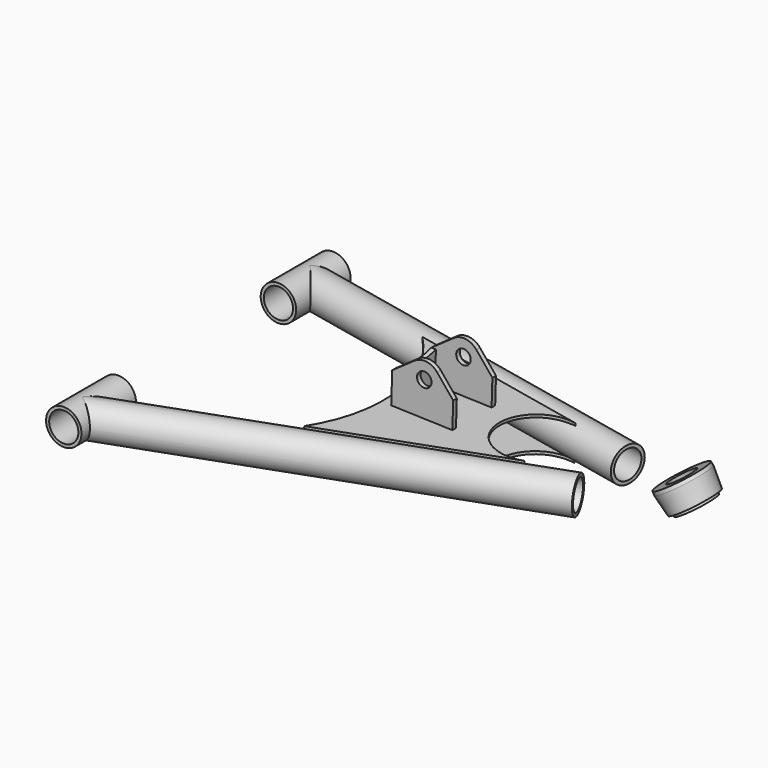
from build123d import *

# Parameters (mm, degrees)
F9_R           = 12.75
F9_R_2         = 10.5
F10_DEPTH      = 161
F10_DEPTH_BACK = 81
F11_W          = 233.1022918224
F11_H          = 144
F12_DEPTH      = 16.9874824964
F12_DEPTH_BACK = 16.3189353996
F14_R          = 12.75
F14_R_2        = 10.25
F15_DEPTH      = 270
F17_R          = 12.75
F17_R_2        = 10.25
F18_DEPTH      = 290
F19_R          = 12.75
F20_DEPTH      = 81.001
F20_DEPTH_BACK = 161.001
F23_DEPTH      = 2
F28_R          = 5.225
F29_DEPTH      = 3.25
F32_DEPTH      = 3.25


with BuildPart() as f8:
    # F7 (on face) → F8 (revolve)
    with BuildSketch(Plane(origin=(2.430759518, -27.7837084267, 0), x_dir=(-0.9961946981, -0.0871557427, 0), z_dir=(-0.0871557427, 0.9961946981, 0))):
        with BuildLine():
            Line((-336.7243883677, -1.4642699984), (-324.7733327745, -9.2253762474))
            Line((-324.7733327745, -9.2253762474), (-323.6840547045, -7.5480351115))
            Line((-323.6840547045, -7.5480351115), (-330.9592499731, -2.8234680621))
            ThreePointArc((-330.9592499731, -2.8234680621), (-329.7771105666, 5.9467819143), (-323.0842163062, 11.7364196097))
            Line((-323.0842163062, 11.7364196097), (-330.1391319522, 16.3179353996))
            Line((-330.1391319522, 16.3179353996), (-331.7581690333, 14.3884421417))
            Line((-331.7581690333, 14.3884421417), (-337.9414543596, 1.7108284837))
            Line((-337.9414543596, 1.7108284837), (-335.6351102977, 0.2130711375))
            Line((-335.6351102977, 0.2130711375), (-336.7243883677, -1.4642699984))
        make_face()
    revolve(axis=Axis((320, 0, 0), (0.5425665191, 0.0474684196, -0.8386705679)))


with BuildPart() as f10:
    # F9 (on Front) → F10 (new body, two sides)
    with BuildSketch(Plane.XZ) as f10_sk:
        Circle(F9_R)
        Circle(F9_R_2, mode=Mode.SUBTRACT)
    extrude(amount=F10_DEPTH)
    extrude(f10_sk.sketch, amount=-F10_DEPTH_BACK)

    # F11 (on Top) → F12 (cut, two sides)
    with BuildSketch(Plane.XY) as f12_sk:
        with Locations((0, -40)):
            Rectangle(F11_W, F11_H)
    extrude(amount=-F12_DEPTH, mode=Mode.SUBTRACT)
    extrude(f12_sk.sketch, amount=F12_DEPTH_BACK, mode=Mode.SUBTRACT)



with BuildPart() as f15:
    # F14 (on line) → F15 (new body, through all)
    with BuildSketch(Plane(origin=(-10.1234936315, 1.7614678899, 0.3165137615), x_dir=(0.1712574916, 0.9852117548, -0.0053544117), z_dir=(0.9847305769, -0.1713411748, -0.0307878673))):
        with Locations((59.1127052892, 0)):
            Circle(F14_R)
        with Locations((59.1127052892, 0)):
            Circle(F14_R_2, mode=Mode.SUBTRACT)
    extrude(amount=F15_DEPTH)


with BuildPart() as f18:
    # F17 (on line) → F18 (new body, through all)
    with BuildSketch(Plane(origin=(-51.7678138222, -21.7681185291, 1.6185346751), x_dir=(0.3872703823, -0.9218866767, -0.0121081131), z_dir=(-0.9214364267, -0.3874596177, 0.0288089586))):
        with Locations((133.6735681176, 0)):
            Circle(F17_R)
        with Locations((133.6735681176, 0)):
            Circle(F17_R_2, mode=Mode.SUBTRACT)
    extrude(amount=-F18_DEPTH)


with BuildPart() as f20_tool:
    # F19 (on Front) → F20 (new body, two sides)
    with BuildSketch(Plane.XZ) as f20_sk:
        Circle(F19_R)
    extrude(amount=-F20_DEPTH)
    extrude(f20_sk.sketch, amount=F20_DEPTH_BACK)


with BuildPart() as f15_1:
    add(f15.part)

    # F20: cut by f20_tool
    add(f20_tool.part, mode=Mode.SUBTRACT)


with BuildPart() as f18_1:
    add(f18.part)

    # F20: cut by f20_tool
    add(f20_tool.part, mode=Mode.SUBTRACT)


with BuildPart() as f23:
    # F22 (on plane+point) → F23 (new body)
    with BuildSketch(Plane(origin=(0.3984375, 0, 12.7437728934), x_dir=(0.9995115995, 0, -0.03125), z_dir=(0.03125, 0, 0.9995115995))):
        with BuildLine():
            ThreePointArc((100, 36.0111292222), (129.2329229797, -24.0737961552), (115.4042017902, -89.4460266037))
            Line((115.4042017902, -89.4460266037), (234.1164355849, -39.5524790668))
            ThreePointArc((234.1164355849, -39.5524790668), (195.5249419926, -16.9389876619), (228.0775281266, 13.7367765046))
            Line((228.0775281266, 13.7367765046), (100, 36.0111292222))
        make_face()
    extrude(amount=-F23_DEPTH)


with BuildPart() as f24_1:
    # F24: instance of F23
    add(f23.part.mirror(Plane(origin=(0, 0, 0), x_dir=(0.9995115995, 0, -0.03125), z_dir=(0.03125, 0, 0.9995115995))))


with BuildPart() as f29:
    # F28 (on plane+point) → F29 (new body)
    with BuildSketch(Plane.XZ.offset(35)):
        with BuildLine():
            Line((181.9037870063, 26.0782432836), (170.359749214, 40.1067033362))
            ThreePointArc((170.359749214, 40.1067033362), (162.7088165519, 44.3725006966), (154.1972474009, 42.3019963356))
            Line((154.1972474009, 42.3019963356), (138.0346516291, 30.9515338818))
            Line((138.0346516291, 30.9515338818), (137.3315266291, 8.4625228934))
            Line((137.3315266291, 8.4625228934), (181.3100370063, 7.0875228934))
            Line((181.3100370063, 7.0875228934), (181.9037870063, 26.0782432836))
        make_face()
        with Locations((161.0937309172, 32.4816849806)):
            Circle(F28_R, mode=Mode.SUBTRACT)
    extrude(amount=F29_DEPTH)


with BuildPart() as f30_1:
    # F30: instance of F29
    add(f29.part.mirror(Plane.XZ.offset(19)))


with BuildPart() as f10_1:
    add(f10.part)

    add(f15_1.part)  # F32 merges F15

    add(f18_1.part)  # F32 merges F18

    add(f23.part)  # F32 merges F23

    add(f24_1.part)  # F32 merges F24_1

    add(f29.part)  # F32 merges F29

    add(f30_1.part)  # F32 merges F30_1
    # F31 (on face) → F32 (join)
    with BuildSketch(Plane(origin=(136.9330891291, 0, -4.28125), x_dir=(0, -1, 0), z_dir=(-0.9995115995, 0, 0.03125))):
        with BuildLine():
            Line((3, 35.25), (3, 12.75))
            Line((3, 12.75), (35, 12.75))
            Line((35, 12.75), (35, 35.25))
            ThreePointArc((35, 35.25), (19, 32.75), (3, 35.25))
        make_face()
    extrude(amount=-F32_DEPTH)


solid = Compound([f8.part, f10_1.part])
